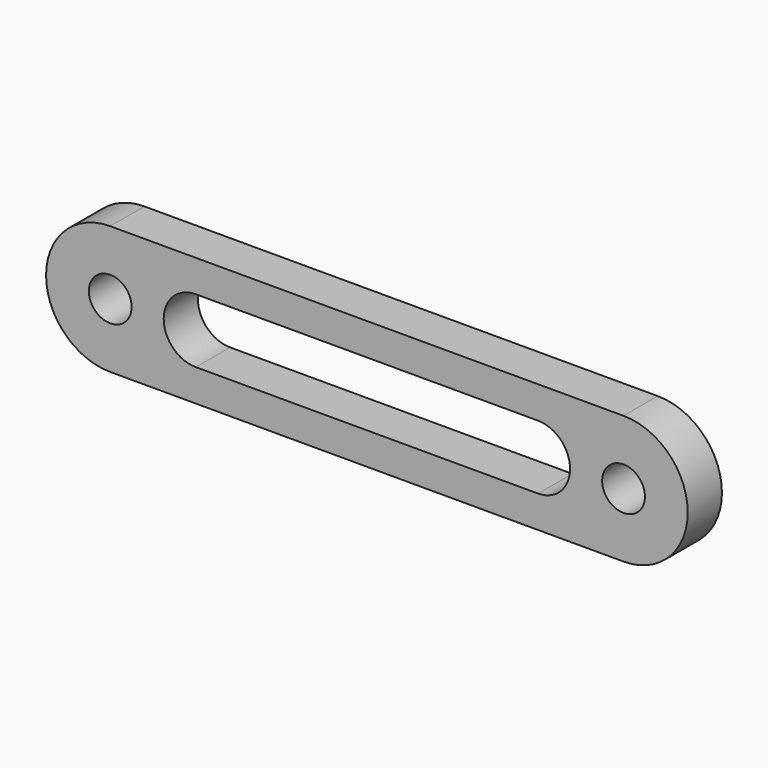
from build123d import *

# Parameters (mm, degrees)
F0_R     = 3.175
F1_DEPTH = 6.35


with BuildPart() as f1:
    # F0 (on Front) → F1 (new body)
    with BuildSketch(Plane.XZ):
        with BuildLine():
            Line((76.2, 9.525), (0, 9.525))
            ThreePointArc((0, 9.525), (-9.525, 0), (0, -9.525))
            Line((0, -9.525), (76.2, -9.525))
            ThreePointArc((76.2, -9.525), (85.725, 0), (76.2, 9.525))
        make_face()
        Circle(F0_R, mode=Mode.SUBTRACT)
        with BuildLine():
            ThreePointArc((12.7, -4.7625), (7.9375, 0), (12.7, 4.7625))
            Line((12.7, 4.7625), (63.5, 4.7625))
            ThreePointArc((63.5, 4.7625), (68.2625, 0), (63.5, -4.7625))
            Line((63.5, -4.7625), (12.7, -4.7625))
        make_face(mode=Mode.SUBTRACT)
        with Locations((76.2, 0)):
            Circle(F0_R, mode=Mode.SUBTRACT)
    extrude(amount=F1_DEPTH)


solid = f1.part
